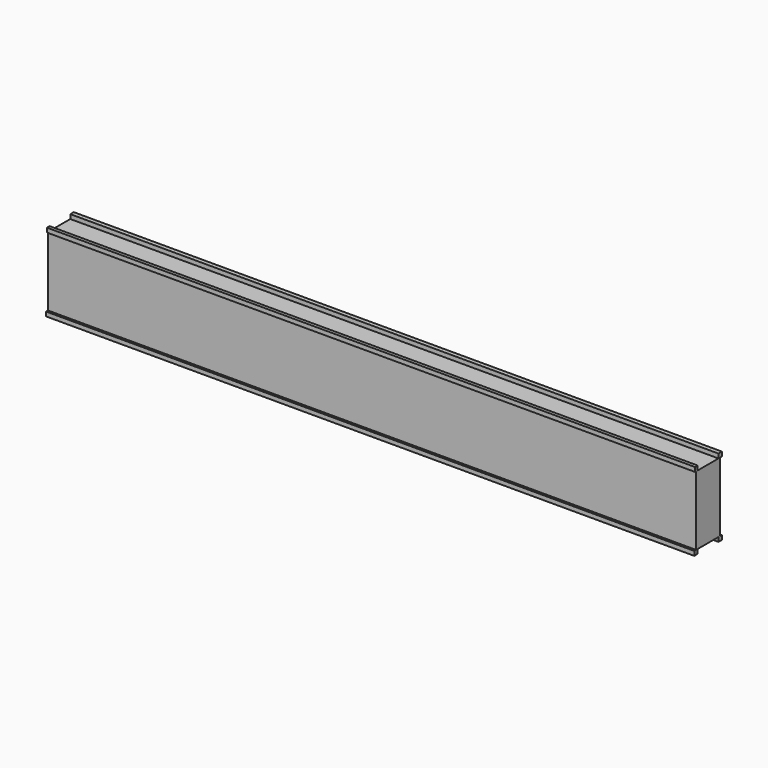
from build123d import *

# Parameters (mm, degrees)
F1_DEPTH = 15000


with BuildPart() as f1:
    # F0 (on Right) → F1 (new body)
    with BuildSketch(Plane.YZ):
        Polygon((-100, 0), (0, 0), (0, 100), (-50, 100), (-50, 1700), (0, 1700), (0, 1800), (-100, 1800), (-100, 1700), (-700, 1700), (-700, 1800), (-776.63, 1800), (-776.63, 1700), (-746.63, 1700), (-746.63, 100), (-800, 100), (-800, 0), (-700, 0), (-700, 100), (-100, 100), align=None)
    extrude(amount=F1_DEPTH)


solid = f1.part
